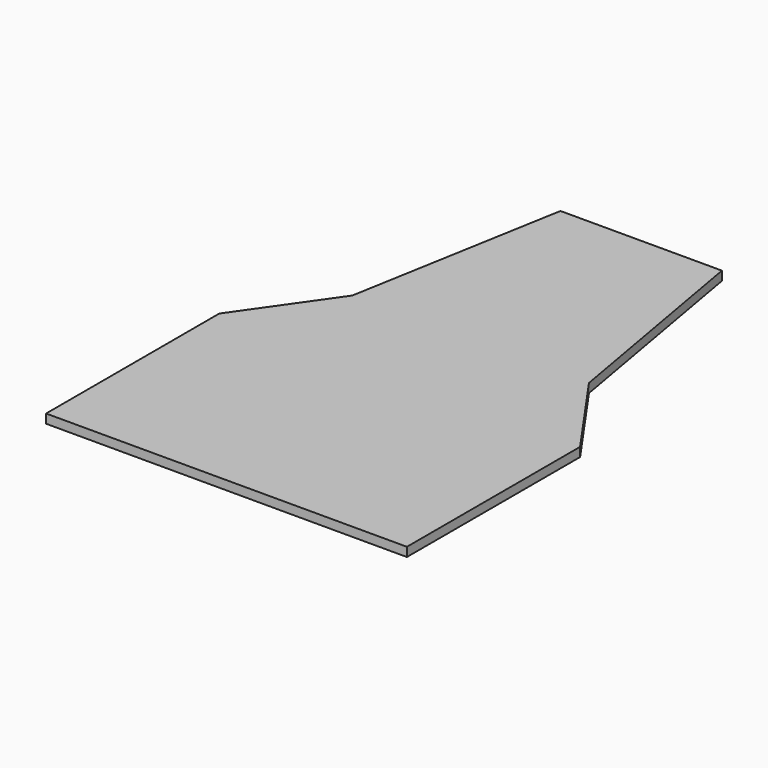
from build123d import *

# Parameters (mm, degrees)
F0_W     = 3.175
F0_H     = 50.8
F1_DEPTH = 3.175


with BuildPart() as f1:
    # F0 (on Top) → F1 (new body)
    with BuildSketch(Plane.XY):
        Polygon((-84.097449, -50.8), (-84.097449, -63.5), (-20.597449, -63.5), (-20.597449, 43.909693), (-62.244187, 43.909693), (-84.097449, 12.7), (-84.097449, 0), (-80.922449, 0), (-80.922449, -50.8), align=None)
        Polygon((-20.597449, 43.909693), (-20.597449, -63.5), (42.902551, -63.5), (42.902551, -50.8), (39.727551, -50.8), (39.727551, 0), (42.902551, 0), (42.902551, 12.7), (21.049288, 43.909693), align=None)
        with Locations((-82.509949, -25.4)):
            Rectangle(F0_W, F0_H)
        Polygon((-20.597449, 118.952044), (-20.597449, 43.909693), (21.049288, 43.909693), (7.817297, 118.952044), align=None)
        Polygon((-62.244187, 43.909693), (-20.597449, 43.909693), (-20.597449, 118.952044), (-49.012196, 118.952044), align=None)
        with Locations((41.315051, -25.4)):
            Rectangle(F0_W, F0_H)
    extrude(amount=F1_DEPTH)


solid = f1.part
